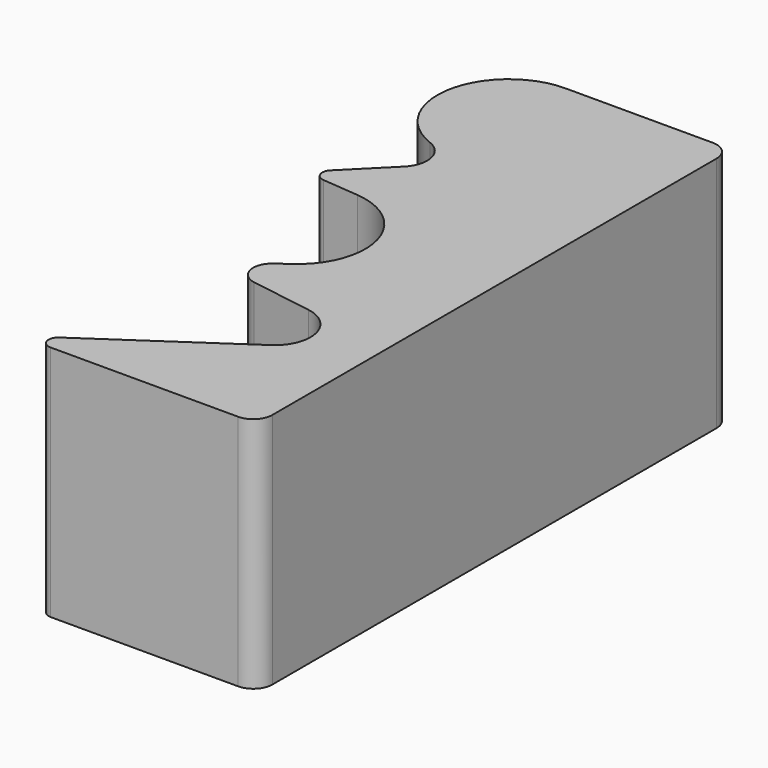
from build123d import *

# Parameters (mm, degrees)
F1_DEPTH = 6.35


with BuildPart() as f1:
    # F0 (on Top) → F1 (new body)
    with BuildSketch(Plane.XY):
        with BuildLine():
            ThreePointArc((0.682411, 0.464039), (0.582476, 0.17928), (0.825238, 0))
            Line((0.825238, 0), (5.842, 0))
            ThreePointArc((5.842, 0), (6.20121, 0.14879), (6.35, 0.508))
            Line((6.35, 0.508), (6.35, 15.367))
            ThreePointArc((6.35, 15.367), (6.20121, 15.72621), (5.842, 15.875))
            Line((5.842, 15.875), (1.905, 15.875))
            ThreePointArc((1.905, 15.875), (0.031846, 14.316871), (1.222856, 12.191319))
            ThreePointArc((1.222856, 12.191319), (1.672644, 11.664932), (1.476048, 11.001048))
            Line((1.476048, 11.001048), (0.385164, 9.910164))
            ThreePointArc((0.385164, 9.910164), (0.326088, 9.643686), (0.542632, 9.477526))
            Line((0.542632, 9.477526), (1.521517, 9.391884))
            ThreePointArc((1.521517, 9.391884), (3.109857, 8.070876), (2.428754, 6.120495))
            Line((2.428754, 6.120495), (2.085889, 5.871389))
            ThreePointArc((2.085889, 5.871389), (1.89052, 5.341818), (2.305015, 4.958663))
            Line((2.305015, 4.958663), (3.970605, 4.694859))
            ThreePointArc((3.970605, 4.694859), (4.752522, 3.960691), (4.357889, 2.963365))
            Line((4.357889, 2.963365), (0.682411, 0.464039))
        make_face()
    extrude(amount=F1_DEPTH)


solid = f1.part
